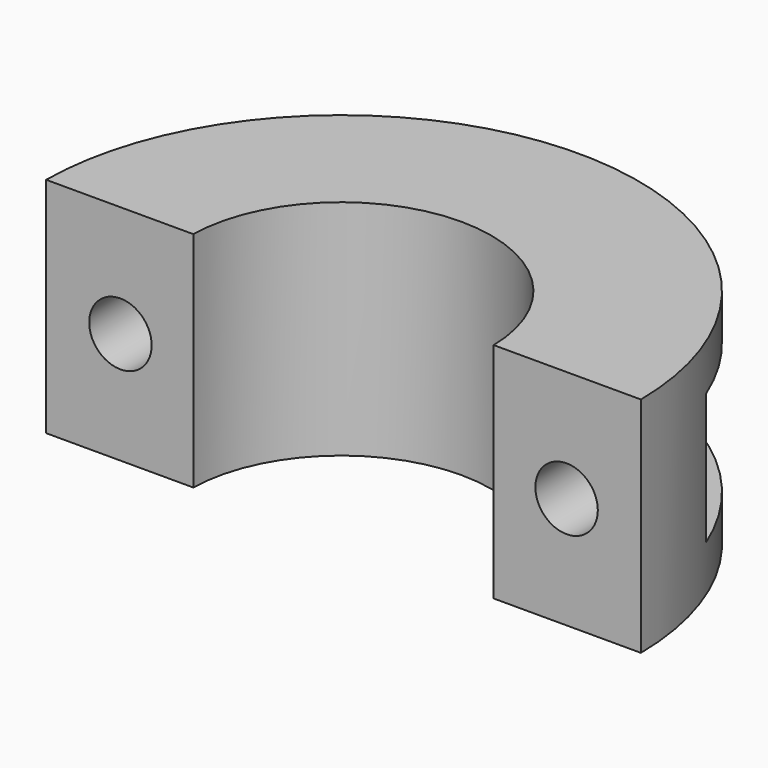
from build123d import *

# Parameters (mm, degrees)
F1_DEPTH = 9.525
F2_R     = 2.667
F4_DEPTH = 25.401
F5_W     = 11.93673
F5_H     = 11.176
F6_DEPTH = 15.876


with BuildPart() as f1:
    # F0 (on Top) → F1 (new body, symmetric)
    with BuildSketch(Plane.XY):
        with BuildLine():
            ThreePointArc((-12.824485, 0.254), (0, 12.827), (12.824485, 0.254))
            Line((12.824485, 0.254), (25.39873, 0.254))
            ThreePointArc((25.39873, 0.254), (0, 25.4), (-25.39873, 0.254))
            Line((-25.39873, 0.254), (-12.824485, 0.254))
        make_face()
    extrude(amount=F1_DEPTH, both=True)

    # F2 (on Front) → F4 (cut, through all)
    with BuildSketch(Plane.XZ):
        with Locations((-19.05, 0)):
            Circle(F2_R)
        with Locations((19.05, 0)):
            Circle(F2_R)
    extrude(amount=-F4_DEPTH, mode=Mode.SUBTRACT)

    # F5 (on offset) → F6 (cut, through all)
    with BuildSketch(Plane.XZ.offset(-9.525)):
        with Locations((19.430365, 0)):
            Rectangle(F5_W, F5_H)
        with Locations((-19.430365, 0)):
            Rectangle(F5_W, F5_H)
    extrude(amount=-F6_DEPTH, mode=Mode.SUBTRACT)


solid = f1.part
